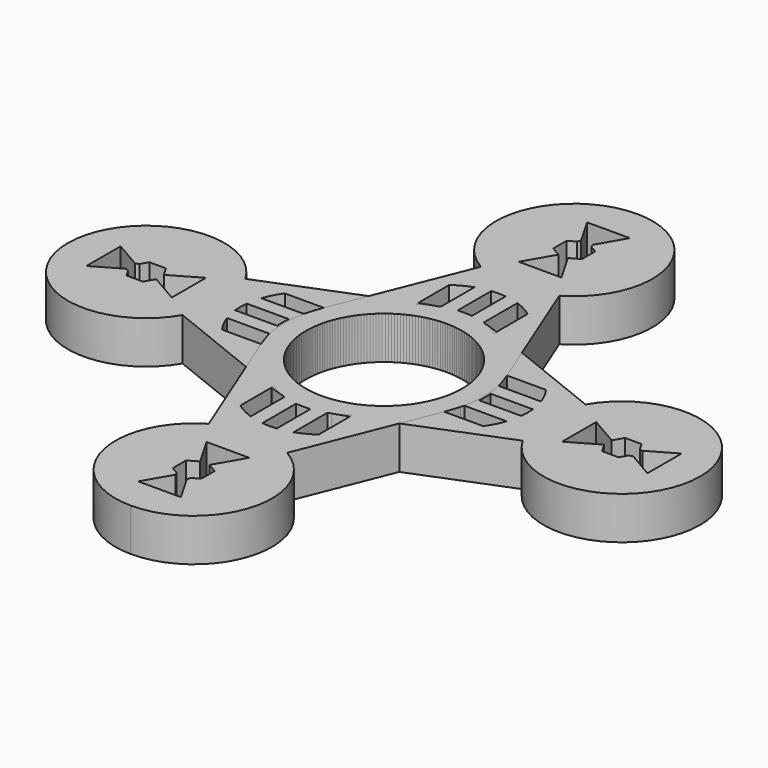
from build123d import *

# Parameters (mm, degrees)
F0_R     = 11
F1_DEPTH = 6
F3_DEPTH = 25
F4_W     = 7.0920773337
F4_H     = 2
F4_W_2   = 8.264102973
F5_DEPTH = 6
F6_COUNT = 4


with BuildPart() as f1:
    # F0 (on Top) → F1 (new body)
    with BuildSketch(Plane.XY):
        with BuildLine():
            ThreePointArc((5.199469469, -12.9986736724), (11.5929412266, -7.8488033303), (14, 0))
            ThreePointArc((14, 0), (11.5929412266, 7.8488033303), (5.199469469, 12.9986736724))
            ThreePointArc((5.199469469, 12.9986736724), (0, 14), (-5.199469469, 12.9986736724))
            ThreePointArc((-5.199469469, 12.9986736724), (-14, 0), (-5.199469469, -12.9986736724))
            ThreePointArc((-5.199469469, -12.9986736724), (0, -14), (5.199469469, -12.9986736724))
        make_face()
        Circle(F0_R, mode=Mode.SUBTRACT)
        with BuildLine():
            ThreePointArc((5.199469469, 12.9986736724), (11.5929412266, 7.8488033303), (14, 0))
            ThreePointArc((14, 0), (11.5929412266, -7.8488033303), (5.199469469, -12.9986736724))
            Line((5.199469469, -12.9986736724), (23.9102346195, -5.5143676122))
            ThreePointArc((23.9102346195, -5.5143676122), (22.4282044575, 0), (23.9102346195, 5.5143676122))
            Line((23.9102346195, 5.5143676122), (5.199469469, 12.9986736724))
        make_face()
        with BuildLine():
            ThreePointArc((-5.199469469, -12.9986736724), (-14, 0), (-5.199469469, 12.9986736724))
            Line((-5.199469469, 12.9986736724), (-23.9102346195, 5.5143676122))
            ThreePointArc((-23.9102346195, 5.5143676122), (-22.8051712697, 2.8550246743), (-22.4282044575, 0))
            ThreePointArc((-22.4282044575, 0), (-22.8051712697, -2.8550246743), (-23.9102346195, -5.5143676122))
            Line((-23.9102346195, -5.5143676122), (-5.199469469, -12.9986736724))
        make_face()
        with BuildLine():
            Line((32.6537411335, 2.0169650066), (23.9102346195, 5.5143676122))
            ThreePointArc((23.9102346195, 5.5143676122), (22.4282044575, 0), (23.9102346195, -5.5143676122))
            Line((23.9102346195, -5.5143676122), (32.6537411335, -2.0169650066))
            Line((32.6537411335, -2.0169650066), (32.263709168, -2.0169650066))
            Line((32.263709168, -2.0169650066), (31.480499629, -0.6604062919))
            Line((31.480499629, -0.6604062919), (27.4282044575, -3))
            Line((27.4282044575, -3), (27.4282044575, 3))
            Line((27.4282044575, 3), (31.480499629, 0.6604062919))
            Line((31.480499629, 0.6604062919), (32.263709168, 2.0169650066))
            Line((32.263709168, 2.0169650066), (32.6537411335, 2.0169650066))
        make_face()
        with BuildLine():
            ThreePointArc((44.4282044575, 0), (36.2832291318, 10.6230331878), (23.9102346195, 5.5143676122))
            Line((23.9102346195, 5.5143676122), (32.6537411335, 2.0169650066))
            Line((32.6537411335, 2.0169650066), (34.592699747, 2.0169650066))
            Line((34.592699747, 2.0169650066), (35.1749473917, 1.0084825033))
            Line((35.1749473917, 1.0084825033), (35.6498043901, 0.818539704))
            Line((35.6498043901, 0.818539704), (39.4282044575, 3))
            Line((39.4282044575, 3), (39.4282044575, -3))
            Line((39.4282044575, -3), (35.6498043901, -0.818539704))
            Line((35.6498043901, -0.818539704), (35.1749473917, -1.0084825033))
            Line((35.1749473917, -1.0084825033), (34.592699747, -2.0169650066))
            Line((34.592699747, -2.0169650066), (32.6537411335, -2.0169650066))
            Line((32.6537411335, -2.0169650066), (23.9102346195, -5.5143676122))
            ThreePointArc((23.9102346195, -5.5143676122), (36.2832291318, -10.6230331878), (44.4282044575, 0))
        make_face()
        with BuildLine():
            ThreePointArc((-22.4282044575, 0), (-22.8051712697, 2.8550246743), (-23.9102346195, 5.5143676122))
            Line((-23.9102346195, 5.5143676122), (-32.6537411335, 2.0169650066))
            Line((-32.6537411335, 2.0169650066), (-32.263709168, 2.0169650066))
            Line((-32.263709168, 2.0169650066), (-31.480499629, 0.6604062919))
            Line((-31.480499629, 0.6604062919), (-27.4282044575, 3))
            Line((-27.4282044575, 3), (-27.4282044575, -3))
            Line((-27.4282044575, -3), (-31.480499629, -0.6604062919))
            Line((-31.480499629, -0.6604062919), (-32.263709168, -2.0169650066))
            Line((-32.263709168, -2.0169650066), (-32.6537411335, -2.0169650066))
            Line((-32.6537411335, -2.0169650066), (-23.9102346195, -5.5143676122))
            ThreePointArc((-23.9102346195, -5.5143676122), (-22.8051712697, -2.8550246743), (-22.4282044575, 0))
        make_face()
        with BuildLine():
            Line((-32.6537411335, 2.0169650066), (-23.9102346195, 5.5143676122))
            ThreePointArc((-23.9102346195, 5.5143676122), (-44.4282044575, 0), (-23.9102346195, -5.5143676122))
            Line((-23.9102346195, -5.5143676122), (-32.6537411335, -2.0169650066))
            Line((-32.6537411335, -2.0169650066), (-34.592699747, -2.0169650066))
            Line((-34.592699747, -2.0169650066), (-35.1749473917, -1.0084825033))
            Line((-35.1749473917, -1.0084825033), (-35.6498043901, -0.818539704))
            Line((-35.6498043901, -0.818539704), (-39.4282044575, -3))
            Line((-39.4282044575, -3), (-39.4282044575, 3))
            Line((-39.4282044575, 3), (-35.6498043901, 0.818539704))
            Line((-35.6498043901, 0.818539704), (-35.1749473917, 1.0084825033))
            Line((-35.1749473917, 1.0084825033), (-34.592699747, 2.0169650066))
            Line((-34.592699747, 2.0169650066), (-32.6537411335, 2.0169650066))
        make_face()
    extrude(amount=F1_DEPTH)

    # F2 (on face) → F3 (cut)
    with BuildSketch(Plane.XY.offset(6)):
        with BuildLine():
            Line((-13.8431219384, 5.5143676122), (-18.3552335948, 5.5143676122))
            ThreePointArc((-18.3552335948, 5.5143676122), (-20.1598162621, 0), (-18.3552335948, -5.5143676122))
            Line((-18.3552335948, -5.5143676122), (-13.8431219384, -5.5143676122))
            Line((-13.8431219384, -5.5143676122), (-12.4311670661, -5.5143676122))
            ThreePointArc((-12.4311670661, -5.5143676122), (-14.2357497334, 0), (-12.4311670661, 5.5143676122))
            Line((-12.4311670661, 5.5143676122), (-13.8431219384, 5.5143676122))
        make_face()
        with BuildLine():
            ThreePointArc((18.3552335948, -5.5143676122), (20.1598162621, 0), (18.3552335948, 5.5143676122))
            Line((18.3552335948, 5.5143676122), (13.8431219384, 5.5143676122))
            Line((13.8431219384, 5.5143676122), (12.4311670661, 5.5143676122))
            ThreePointArc((12.4311670661, 5.5143676122), (14.2357497334, 0), (12.4311670661, -5.5143676122))
            Line((12.4311670661, -5.5143676122), (13.8431219384, -5.5143676122))
            Line((13.8431219384, -5.5143676122), (18.3552335948, -5.5143676122))
        make_face()
    extrude(amount=-F3_DEPTH, mode=Mode.SUBTRACT)

    # F4 (on face) → F5 (join)
    with BuildSketch(Plane.XY.offset(6)):
        with Locations((-16.8620445766, -2.0143676122)):
            Rectangle(F4_W, F4_H)
        with Locations((-16.0938180052, 2.0143676122)):
            Rectangle(F4_W_2, F4_H)
        with Locations((16.0938180052, 2.0143676122)):
            Rectangle(F4_W_2, F4_H)
        with Locations((16.8620445766, -2.0143676122)):
            Rectangle(F4_W, F4_H)
    extrude(amount=-F5_DEPTH)


with BuildPart() as f6_1:
    # F6: instance of F1
    add(f1.part.rotate(Axis((0, 0, 6), (0, 0, 1)), 1 * 360 / F6_COUNT))


with BuildPart() as f6_2:
    # F6: instance of F1
    add(f1.part.rotate(Axis((0, 0, 6), (0, 0, 1)), 2 * 360 / F6_COUNT))


with BuildPart() as f6_3:
    # F6: instance of F1
    add(f1.part.rotate(Axis((0, 0, 6), (0, 0, 1)), 3 * 360 / F6_COUNT))


solid = Compound([f1.part, f6_1.part, f6_2.part, f6_3.part])
